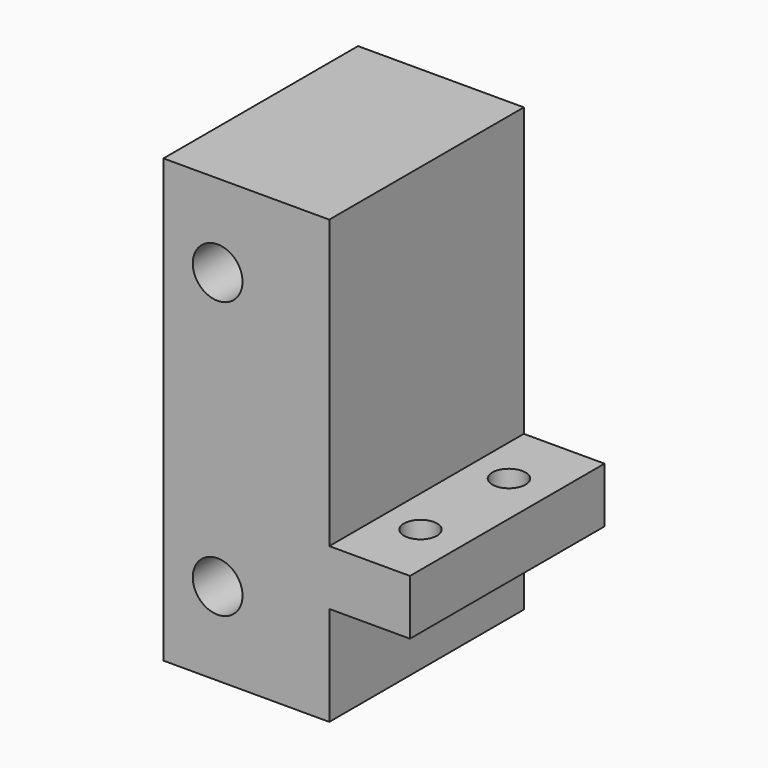
from build123d import *

# Parameters (mm, degrees)
PAD037_DEPTH            = 11
SKETCH064_R             = 2.25
POCKET019_DEPTH         = 25
SKETCH065_R             = 1.5
POCKET020_DEPTH         = 5
BODY023_PLACEMENT_ANGLE = 180
BODY045_PLACEMENT_ANGLE = 180


with BuildPart() as part:
    # Sketch063 → Pad037 (new body, symmetric)
    with BuildSketch(Plane.XZ):
        Polygon((-1.5, 40), (-1.5, 0), (13.5, 0), (13.5, 9), (20.8, 9), (20.8, 14), (13.5, 14), (13.5, 40), align=None)
    extrude(amount=PAD037_DEPTH, both=True)

    # Sketch064 (on Face10 of Pad037) → Pocket019 (cut)
    with BuildSketch(Plane.XZ.offset(11)):
        with Locations((3.4, 32.5)):
            Circle(SKETCH064_R)
        with Locations((3.4, 7.5)):
            Circle(SKETCH064_R)
    extrude(amount=-POCKET019_DEPTH, mode=Mode.SUBTRACT)

    # Sketch065 (on Face9 of Pocket019) → Pocket020 (cut)
    with BuildSketch(Plane(origin=(0, 0, 9), x_dir=(1, 0, 0), z_dir=(0, 0, -1))):
        with Locations((16.95, 5)):
            Circle(SKETCH065_R)
        with Locations((16.95, -5)):
            Circle(SKETCH065_R)
    extrude(amount=-POCKET020_DEPTH, mode=Mode.SUBTRACT)


with BuildPart() as part_1:
    # Body023 placement: moved
    add(part.part.moved(Location((-17, 0, 81))).rotate(Axis((-17, 0, 81), (0, 0, 1)), BODY023_PLACEMENT_ANGLE))


with BuildPart() as part_2:
    # Body045 placement: moved
    add(part_1.part.rotate(Axis((0, 0, 0), (0, 0, 1)), BODY045_PLACEMENT_ANGLE))


solid = part_2.part
